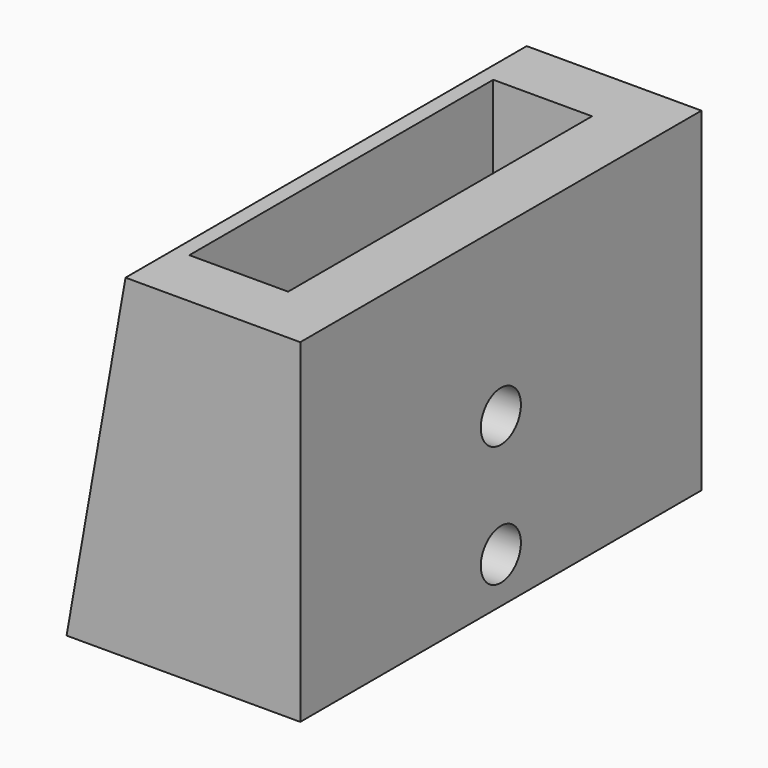
from build123d import *

# Parameters (mm, degrees)
PAD_DEPTH       = 33
SKETCH001_W     = 6.5
SKETCH001_H     = 25
POCKET_DEPTH    = 30
SKETCH002_R     = 1.65
POCKET001_DEPTH = 15


with BuildPart() as part:
    # Sketch → Pad (new body)
    with BuildSketch(Plane.XZ):
        Polygon((-15.379194, 0), (0, 0), (0, 22), (-11.5, 22), align=None)
    extrude(amount=PAD_DEPTH)

    # Sketch001 (on Face3 of Pad) → Pocket (cut)
    with BuildSketch(Plane(origin=(0, 0, 22), x_dir=(-1, 0, 0), z_dir=(0, 0, 1))):
        with Locations((7.25, 16.5)):
            Rectangle(SKETCH001_W, SKETCH001_H)
    extrude(amount=-POCKET_DEPTH, mode=Mode.SUBTRACT)

    # Sketch002 (on Face5 of Pocket) → Pocket001 (cut)
    with BuildSketch(Plane(origin=(0, 0, 0), x_dir=(0, 0, 1), z_dir=(1, 0, 0))):
        with Locations((3, 16.5)):
            Circle(SKETCH002_R)
        with Locations((11, 16.5)):
            Circle(SKETCH002_R)
    extrude(amount=-POCKET001_DEPTH, mode=Mode.SUBTRACT)


solid = part.part
